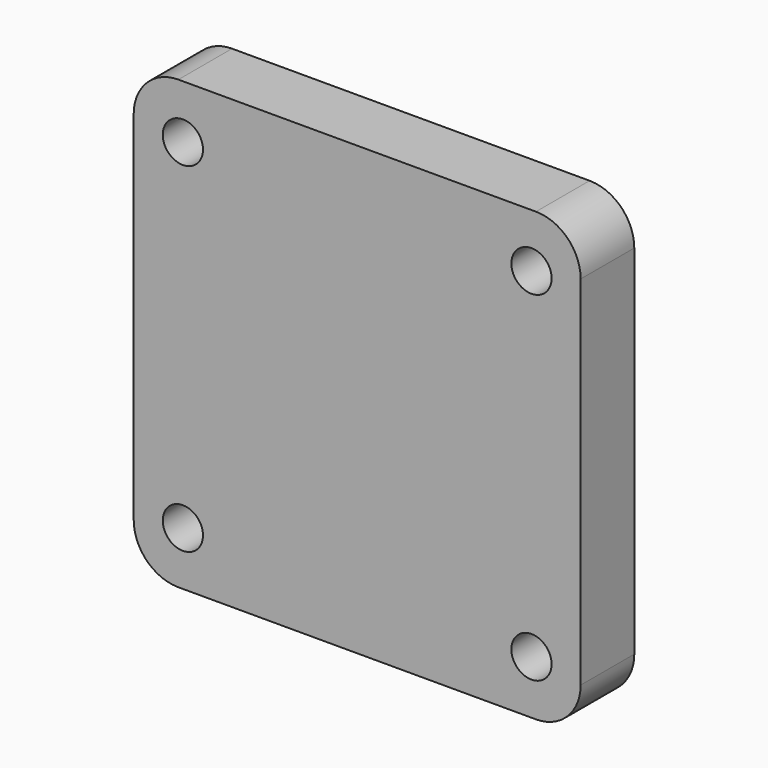
from build123d import *

# Parameters (mm, degrees)
F0_R     = 4.5
F1_DEPTH = 15
F3_DEPTH = 10.5


with BuildPart() as f1:
    # F0 (on Front) → F1 (new body)
    with BuildSketch(Plane.XZ):
        with BuildLine():
            Line((40, 50), (-40, 50))
            ThreePointArc((-40, 50), (-47.071068, 47.071068), (-50, 40))
            Line((-50, 40), (-50, -40))
            ThreePointArc((-50, -40), (-47.071068, -47.071068), (-40, -50))
            Line((-40, -50), (40, -50))
            ThreePointArc((40, -50), (47.071068, -47.071068), (50, -40))
            Line((50, -40), (50, 40))
            ThreePointArc((50, 40), (47.071068, 47.071068), (40, 50))
        make_face()
        with Locations((-39, -38)):
            Circle(F0_R, mode=Mode.SUBTRACT)
        with Locations((39, -38)):
            Circle(F0_R, mode=Mode.SUBTRACT)
        with Locations((-39, 38)):
            Circle(F0_R, mode=Mode.SUBTRACT)
        with Locations((39, 38)):
            Circle(F0_R, mode=Mode.SUBTRACT)
    extrude(amount=F1_DEPTH)

    # F2 (on face) → F3 (cut)
    with BuildSketch(Plane(origin=(0, 0, 0), x_dir=(-1, 0, 0), z_dir=(0, 1, 0))):
        Polygon((-25, 14.751212), (-25, -50), (25, -50), (25, 29.937138), (-25, 30), align=None)
    extrude(amount=-F3_DEPTH, mode=Mode.SUBTRACT)


solid = f1.part
